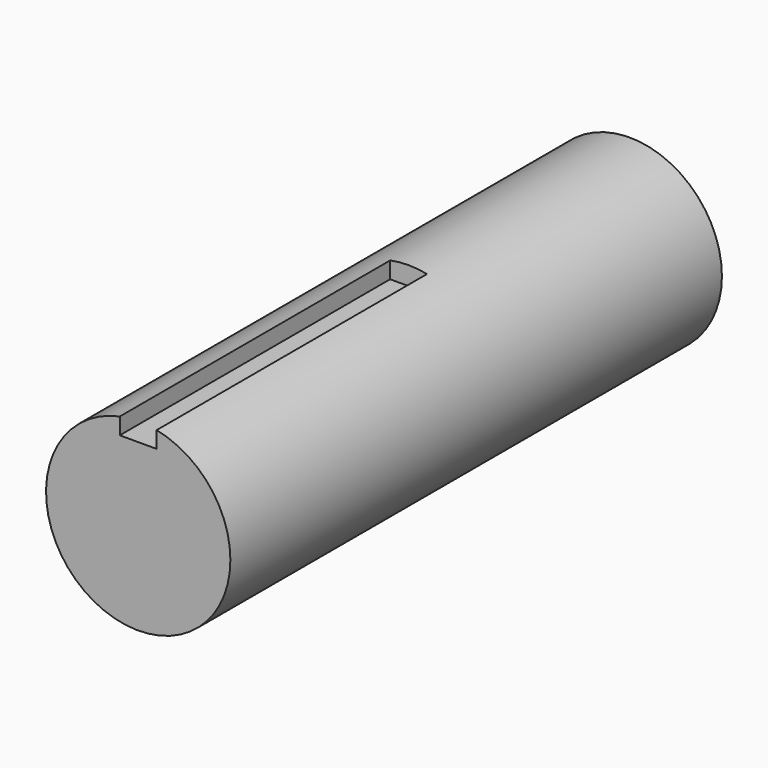
from build123d import *

# Parameters (mm, degrees)
F0_R     = 15
F1_DEPTH = 100
F3_DEPTH = 55


with BuildPart() as f1:
    # F0 (on Front) → F1 (new body)
    with BuildSketch(Plane.XZ):
        Circle(F0_R)
    extrude(amount=-F1_DEPTH)

    # F2 (on face) → F3 (cut)
    with BuildSketch(Plane.XZ):
        with BuildLine():
            Line((3, 12), (3, 14.6969384567))
            ThreePointArc((3, 14.6969384567), (0, 15), (-3, 14.6969384567))
            Line((-3, 14.6969384567), (-3, 12))
            Line((-3, 12), (3, 12))
        make_face()
    extrude(amount=-F3_DEPTH, mode=Mode.SUBTRACT)


solid = f1.part
